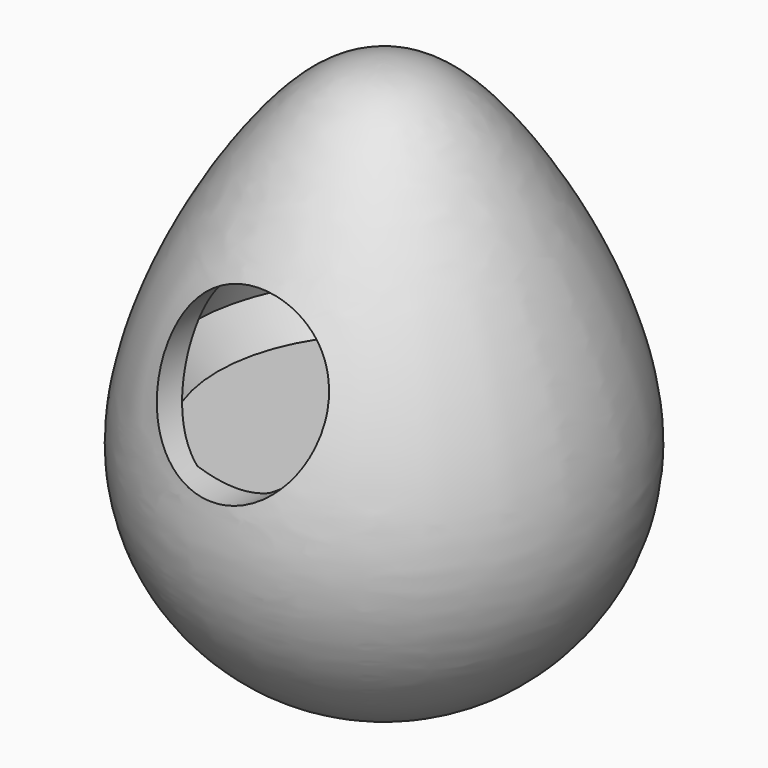
from build123d import *

# Parameters (mm, degrees)
F2_R     = 7.5
F3_DEPTH = 22.5


with BuildPart() as f1:
    # F0 (on Front) → F1 (revolve)
    with BuildSketch(Plane.XZ):
        with BuildLine():
            Line((0, 20.8383347935), (0, 0))
            add(Edge.make_bspline(
                [(0, 0), (3.4306549443, 0), (13.0298135235, 2.1199087828), (25.3515863723, 20.6893586716), (8.8658245791, 48.7261815634), (2.6498234365, 50.8276484907), (0, 50.8)],
                knots=[0, 0, 0, 0, 0.2146471823, 0.486495413, 0.8224015259, 1, 1, 1, 1], degree=3))
            Line((0, 50.8), (0, 49.4971532875))
            Line((0, 49.4971532875), (6.5130613381, 42.9840919493))
            Line((6.5130613381, 42.9840919493), (13.1299248343, 35.2869247248))
            Line((13.1299248343, 35.2869247248), (17.5716364023, 24.0620750116))
            Line((17.5716364023, 24.0620750116), (15.2529663225, 20.8383347935))
            Line((15.2529663225, 20.8383347935), (0, 20.8383347935))
        make_face()
    revolve(axis=Axis((0, 0, 34.6111042016), (0, 0, 1)))

    # F2 (on Front) → F3 (cut)
    with BuildSketch(Plane.XZ):
        with Locations((0, 30.7771041989)):
            Circle(F2_R)
    extrude(amount=F3_DEPTH, mode=Mode.SUBTRACT)


solid = f1.part
